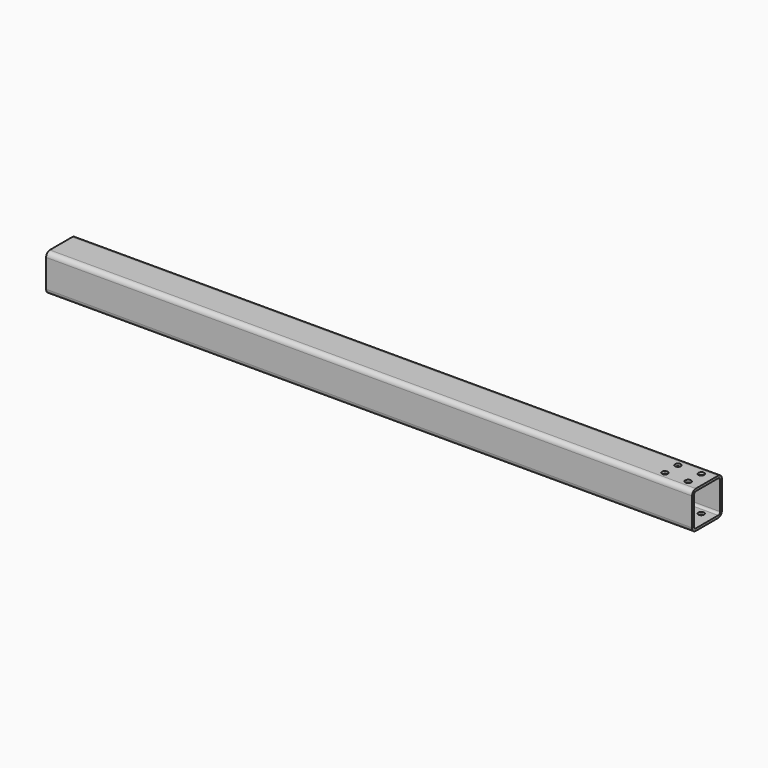
from build123d import *

# Parameters (mm, degrees)
F1_DEPTH      = 1385
F2_R          = 6.25
F3_DEPTH      = 40.001
F3_DEPTH_BACK = 40.001


with BuildPart() as f1:
    # F0 (on Right) → F1 (new body)
    with BuildSketch(Plane.YZ):
        with BuildLine():
            ThreePointArc((40, 30), (37.0710678119, 37.0710678119), (30, 40))
            Line((30, 40), (-30, 40))
            ThreePointArc((-30, 40), (-37.0710678119, 37.0710678119), (-40, 30))
            Line((-40, 30), (-40, -30))
            ThreePointArc((-40, -30), (-37.0710678119, -37.0710678119), (-30, -40))
            Line((-30, -40), (30, -40))
            ThreePointArc((30, -40), (37.0710678119, -37.0710678119), (40, -30))
            Line((40, -30), (40, 30))
        make_face()
        with BuildLine():
            ThreePointArc((30, 35.000000149), (33.5355340113, 33.5355340113), (35.000000149, 30))
            Line((35.000000149, 30), (35.000000149, -30))
            ThreePointArc((35.000000149, -30), (33.5355340113, -33.5355340113), (30, -35.000000149))
            Line((30, -35.000000149), (-30, -35.000000149))
            ThreePointArc((-30, -35.000000149), (-33.5355340113, -33.5355340113), (-35.000000149, -30))
            Line((-35.000000149, -30), (-35.000000149, 30))
            ThreePointArc((-35.000000149, 30), (-33.5355340113, 33.5355340113), (-30, 35.000000149))
            Line((-30, 35.000000149), (30, 35.000000149))
        make_face(mode=Mode.SUBTRACT)
    extrude(amount=F1_DEPTH)

    # F2 (on Top) → F3 (cut, two sides)
    with BuildSketch(Plane.XY) as f3_sk:
        with Locations((1358.75, -17.5)):
            Circle(F2_R)
        with Locations((1308.75, -17.5)):
            Circle(F2_R)
        with Locations((1358.75, 17.5)):
            Circle(F2_R)
        with Locations((1308.75, 17.5)):
            Circle(F2_R)
    extrude(amount=-F3_DEPTH, mode=Mode.SUBTRACT)
    extrude(f3_sk.sketch, amount=F3_DEPTH_BACK, mode=Mode.SUBTRACT)


solid = f1.part
